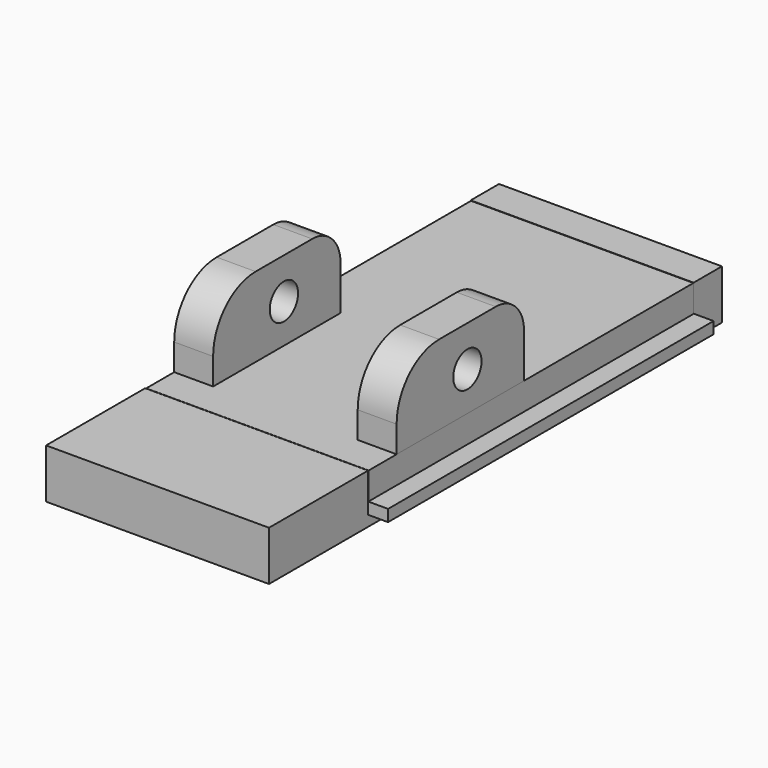
from build123d import *

# Parameters (mm, degrees)
F0_W      = 12.6
F0_H      = 32
F1_DEPTH  = 0.6
F2_W      = 15
F2_H      = 23
F3_DEPTH  = 0.66
F4_W      = 12.6
F4_H      = 7
F5_DEPTH  = 2.2
F6_W      = 12.6
F6_H      = 2
F7_DEPTH  = 2.2
F9_W      = 12.572133
F9_H      = 22.951454
F10_DEPTH = 1.54
F11_W     = 2.2
F11_H     = 9
F12_DEPTH = 4.5
F13_R     = 1
F14_DEPTH = 16
F15_R     = 3
F16_R     = 2
F17_R     = 3
F18_R     = 2


with BuildPart() as f1:
    # F0 (on Top) → F1 (new body)
    with BuildSketch(Plane.XY):
        with Locations((0.140124, -3.403742)):
            Rectangle(F0_W, F0_H)
    extrude(amount=F1_DEPTH)

    # F2 (on face) → F3 (join)
    with BuildSketch(Plane.XY.offset(0.6)):
        with Locations((0.070062, -0.903742)):
            Rectangle(F2_W, F2_H)
    extrude(amount=F3_DEPTH)

    # F4 (on face) → F5 (join)
    with BuildSketch(Plane.XY.offset(0.6)):
        with Locations((0.140124, -15.903742)):
            Rectangle(F4_W, F4_H)
    extrude(amount=F5_DEPTH)

    # F6 (on face) → F7 (join)
    with BuildSketch(Plane.XY.offset(0.6)):
        with Locations((0.140124, 11.596258)):
            Rectangle(F6_W, F6_H)
    extrude(amount=F7_DEPTH)

    # F9 (on face) → F10 (join)
    with BuildSketch(Plane.XY.offset(1.26)):
        with Locations((0.168414, -0.908688)):
            Rectangle(F9_W, F9_H)
    extrude(amount=F10_DEPTH)

    # F11 (on face) → F12 (join)
    with BuildSketch(Plane.XY.offset(2.8)):
        with Locations((-5.017652, -5.903742)):
            Rectangle(F11_W, F11_H)
        with Locations((5.354481, -5.903742)):
            Rectangle(F11_W, F11_H)
    extrude(amount=F12_DEPTH)

    # F13 (on face) → F14 (cut)
    with BuildSketch(Plane.YZ.offset(6.454481)):
        with Locations((-5.403742, 5)):
            Circle(F13_R)
    extrude(amount=-F14_DEPTH, mode=Mode.SUBTRACT)

    # F15
    f15_edges = [f1.edges().sort_by_distance(p)[0] for p in [
        (-5.017652, -10.403742, 7.3),
    ]]
    fillet(f15_edges, radius=F15_R)

    # F16
    f16_edges = [f1.edges().sort_by_distance(p)[0] for p in [
        (-5.017652, -1.403742, 7.3),
    ]]
    fillet(f16_edges, radius=F16_R)

    # F17
    f17_edges = [f1.edges().sort_by_distance(p)[0] for p in [
        (5.354481, -10.403742, 7.3),
    ]]
    fillet(f17_edges, radius=F17_R)

    # F18
    f18_edges = [f1.edges().sort_by_distance(p)[0] for p in [
        (5.354481, -1.403742, 7.3),
    ]]
    fillet(f18_edges, radius=F18_R)


solid = f1.part
